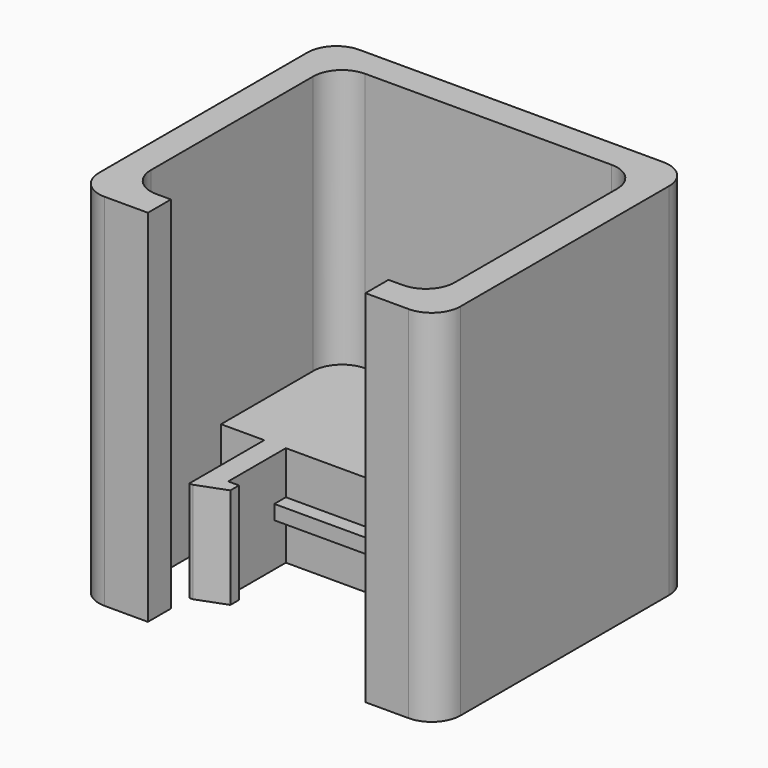
from build123d import *

# Parameters (mm, degrees)
F2_DEPTH = 7
F3_W     = 12.1
F3_H     = 1
F4_DEPTH = 1
F6_DEPTH = 7
F7_DEPTH = 25
F8_R     = 2


with BuildPart() as f2:
    # F1 (on face) → F2 (new body)
    with BuildSketch(Plane.XY):
        Polygon((-6.05, 2.5), (0, 2.5), (0, 4.5), (-7.55, 4.5), (-7.55, -4), (-7.3, -4), (-5.3, -3.25), (-5.3, -2.5), (-6.05, -2.5), align=None)
        Polygon((0, 4.5), (0, 2.5), (6.05, 2.5), (6.05, -2.5), (5.3, -2.5), (5.3, -3.25), (7.3, -4), (7.55, -4), (7.55, 4.5), align=None)
    extrude(amount=F2_DEPTH)

    # F3 (on face) → F4 (join)
    with BuildSketch(Plane.XZ.offset(-2.5)):
        with Locations((0, 3.5)):
            Rectangle(F3_W, F3_H)
    extrude(amount=F4_DEPTH)

    # F5 (on Top) → F6 (join)
    with BuildSketch(Plane.XY):
        Polygon((-10.55, 2.5), (-7.55, 2.5), (-7.55, 4.5), (0, 4.5), (0, 12.5), (-10.55, 12.5), align=None)
        Polygon((0, 12.5), (0, 4.5), (7.55, 4.5), (7.55, 2.5), (10.55, 2.5), (10.55, 12.5), align=None)
    extrude(amount=F6_DEPTH)

    # F5 (on Top) → F7 (join)
    with BuildSketch(Plane.XY):
        Polygon((-7.55, -7.5960563503), (-7.55, -5.5960563503), (-10.55, -5.5960563503), (-10.55, 2.5), (-10.55, 12.5), (0, 12.5), (0, 14.5), (-12.55, 14.5), (-12.55, -7.5960563503), align=None)
        Polygon((0, 14.5), (0, 12.5), (10.55, 12.5), (10.55, 2.5), (10.55, -5.5960563503), (7.55, -5.5960563503), (7.55, -7.5960563503), (12.55, -7.5960563503), (12.55, 14.5), align=None)
    extrude(amount=F7_DEPTH)

    # F8
    f8_edges = [f2.edges().sort_by_distance(p)[0] for p in [
        (12.55, -7.596056, 12.5),
        (10.55, -5.596056, 12.5),
        (-12.55, -7.596056, 12.5),
        (-12.55, 14.5, 12.5),
        (12.55, 14.5, 12.5),
        (-10.55, -5.596056, 12.5),
        (-10.55, 12.5, 16),
        (10.55, 12.5, 16),
    ]]
    fillet(f8_edges, radius=F8_R)


solid = f2.part
